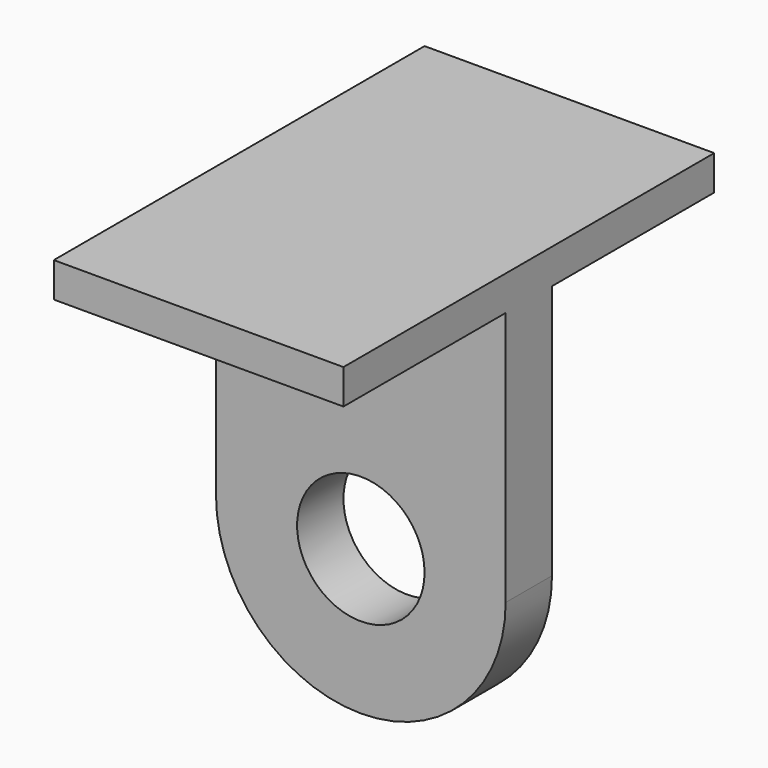
from build123d import *

# Parameters (mm, degrees)
F0_R     = 11
F0_W     = 50
F0_H     = 6
F1_DEPTH = 5
F2_DEPTH = 40


with BuildPart() as f1:
    # F0 (on Front) → F1 (new body, symmetric)
    with BuildSketch(Plane.XZ):
        with BuildLine():
            Line((-25, 44), (-25, 0))
            ThreePointArc((-25, 0), (0, -25), (25, 0))
            Line((25, 0), (25, 44))
            Line((25, 44), (-25, 44))
        make_face()
        Circle(F0_R, mode=Mode.SUBTRACT)
        with Locations((0, 47)):
            Rectangle(F0_W, F0_H)
    extrude(amount=F1_DEPTH, both=True)

    # F0 (on Front) → F2 (join, symmetric)
    with BuildSketch(Plane.XZ):
        with Locations((0, 47)):
            Rectangle(F0_W, F0_H)
    extrude(amount=F2_DEPTH, both=True)


solid = f1.part
